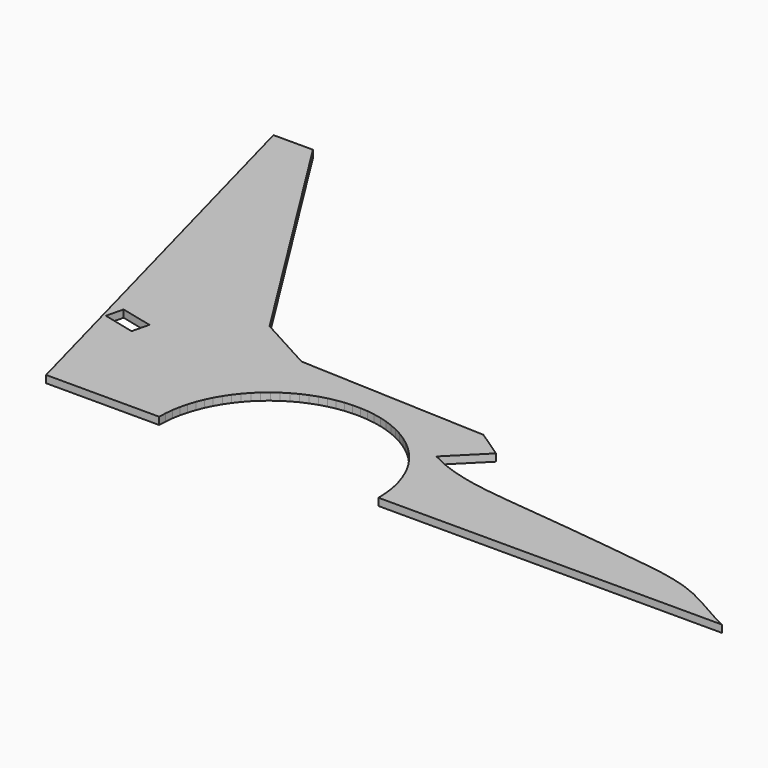
from build123d import *

# Parameters (mm, degrees)
PAD002_DEPTH = 5


with BuildPart() as part:
    # Sketch002 → Pad002 (new body)
    with BuildSketch(Plane.XY):
        with BuildLine():
            add(Edge.make_bspline(
                [(645.666484, -413.860155), (636.98815, -409.450433)],
                knots=[0, 0, 27.593659, 27.593659], degree=1))
            add(Edge.make_bspline(
                [(636.98815, -409.450433), (628.450928, -404.652656)],
                knots=[0, 0, 27.759683, 27.759683], degree=1))
            add(Edge.make_bspline(
                [(628.450928, -404.652656), (619.878429, -399.8196)],
                knots=[0, 0, 27.895878, 27.895878], degree=1))
            add(Edge.make_bspline(
                [(619.878429, -399.8196), (611.12954, -395.409878)],
                knots=[0, 0, 27.772108, 27.772108], degree=1))
            add(Edge.make_bspline(
                [(611.12954, -395.409878), (602.098429, -391.811545)],
                knots=[0, 0, 27.557213, 27.557213], degree=1))
            add(Edge.make_bspline(
                [(602.098429, -391.811545), (592.71454, -389.095156)],
                knots=[0, 0, 27.692057, 27.692057], degree=1))
            add(Edge.make_bspline(
                [(592.71454, -389.095156), (583.118985, -387.084323)],
                knots=[0, 0, 27.790826, 27.790826], degree=1))
            add(Edge.make_bspline(
                [(583.118985, -387.084323), (573.382319, -385.5321)],
                knots=[0, 0, 27.948524, 27.948524], degree=1))
            add(Edge.make_bspline(
                [(573.382319, -385.5321), (542.761208, -381.510434)],
                knots=[0, 0, 87.545417, 87.545417], degree=1))
            add(Edge.make_bspline(
                [(542.761208, -381.510434), (512.316487, -377.912101)],
                knots=[0, 0, 86.90069, 86.90069], degree=1))
            add(Edge.make_bspline(
                [(512.316487, -377.912101), (497.041209, -376.254045)],
                knots=[0, 0, 43.554334, 43.554334], degree=1))
            add(Edge.make_bspline(
                [(497.041209, -376.254045), (481.730654, -374.631267)],
                knots=[0, 0, 43.643098, 43.643098], degree=1))
            add(Edge.make_bspline(
                [(481.730654, -374.631267), (466.420099, -373.00849)],
                knots=[0, 0, 43.643098, 43.643098], degree=1))
            add(Edge.make_bspline(
                [(466.420099, -373.00849), (451.109543, -371.10349)],
                knots=[0, 0, 43.734654, 43.734654], degree=1))
            add(Edge.make_bspline(
                [(451.109543, -371.10349), (441.584544, -369.551267)],
                knots=[0, 0, 27.356169, 27.356169], degree=1))
            add(Edge.make_bspline(
                [(441.584544, -369.551267), (432.165377, -367.505156)],
                knots=[0, 0, 27.322701, 27.322701], degree=1))
            add(Edge.make_bspline(
                [(432.165377, -367.505156), (422.9226, -364.894601)],
                knots=[0, 0, 27.224989, 27.224989], degree=1))
            add(Edge.make_bspline(
                [(422.9226, -364.894601), (413.856211, -361.507934)],
                knots=[0, 0, 27.434467, 27.434467], degree=1))
            add(Edge.make_bspline(
                [(413.856211, -361.507934), (405.036767, -357.239323)],
                knots=[0, 0, 27.774269, 27.774269], degree=1))
            add(Edge.make_bspline(
                [(405.036767, -357.239323), (427.685099, -334.59099)],
                knots=[0, 0, 90.792511, 90.792511], degree=1))
            add(Edge.make_bspline(
                [(427.685099, -334.59099), (408.987878, -321.996824)],
                knots=[0, 0, 63.902191, 63.902191], degree=1))
            add(Edge.make_bspline(
                [(408.987878, -321.996824), (280.153436, -316.493491)],
                knots=[0, 0, 365.533035, 365.533035], degree=1))
            add(Edge.make_bspline(
                [(280.153436, -316.493491), (241.312604, -295.256269)],
                knots=[0, 0, 125.483266, 125.483266], degree=1))
            add(Edge.make_bspline(
                [(241.312604, -295.256269), (131.810384, -121.301551)],
                knots=[0, 0, 582.662655, 582.662655], degree=1))
            add(Edge.make_bspline(
                [(131.810384, -121.301551), (104.787607, -121.301551)],
                knots=[0, 0, 76.6, 76.6], degree=1))
            add(Edge.make_bspline(
                [(104.787607, -121.301551), (183.28066, -413.860155)],
                knots=[0, 0, 858.629571, 858.629571], degree=1))
            add(Edge.make_bspline(
                [(260.680103, -413.860155), (183.28066, -413.860155)],
                knots=[0, 0, 219.4, 219.4], degree=1))
            add(Edge.make_bspline(
                [(260.856492, -408.639044), (260.680103, -413.860155)],
                knots=[0, 0, 14.808444, 14.808444], degree=1))
            add(Edge.make_bspline(
                [(261.385659, -403.417933), (260.856492, -408.639044)],
                knots=[0, 0, 14.875819, 14.875819], degree=1))
            add(Edge.make_bspline(
                [(262.302881, -398.267378), (261.385659, -403.417933)],
                knots=[0, 0, 14.8297, 14.8297], degree=1))
            add(Edge.make_bspline(
                [(263.572881, -393.187378), (262.302881, -398.267378)],
                knots=[0, 0, 14.84318, 14.84318], degree=1))
            add(Edge.make_bspline(
                [(265.195659, -388.213211), (263.572881, -393.187378)],
                knots=[0, 0, 14.831386, 14.831386], degree=1))
            add(Edge.make_bspline(
                [(267.135936, -383.380156), (265.195659, -388.213211)],
                knots=[0, 0, 14.762791, 14.762791], degree=1))
            add(Edge.make_bspline(
                [(269.428992, -378.652934), (267.135936, -383.380156)],
                knots=[0, 0, 14.893287, 14.893287], degree=1))
            add(Edge.make_bspline(
                [(272.074825, -374.137378), (269.428992, -378.652934)],
                knots=[0, 0, 14.835431, 14.835431], degree=1))
            add(Edge.make_bspline(
                [(275.002881, -369.798212), (272.074825, -374.137378)],
                knots=[0, 0, 14.838464, 14.838464], degree=1))
            add(Edge.make_bspline(
                [(278.213158, -365.670712), (275.002881, -369.798212)],
                knots=[0, 0, 14.822281, 14.822281], degree=1))
            add(Edge.make_bspline(
                [(281.705658, -361.754879), (278.213158, -365.670712)],
                knots=[0, 0, 14.873466, 14.873466], degree=1))
            add(Edge.make_bspline(
                [(285.48038, -358.121268), (281.705658, -361.754879)],
                knots=[0, 0, 14.851936, 14.851936], degree=1))
            add(Edge.make_bspline(
                [(289.502047, -354.769879), (285.48038, -358.121268)],
                knots=[0, 0, 14.839474, 14.839474], degree=1))
            add(Edge.make_bspline(
                [(293.73538, -351.700712), (289.502047, -354.769879)],
                knots=[0, 0, 14.821943, 14.821943], degree=1))
            add(Edge.make_bspline(
                [(298.18038, -348.913768), (293.73538, -351.700712)],
                knots=[0, 0, 14.871785, 14.871785], degree=1))
            add(Edge.make_bspline(
                [(302.801769, -346.444324), (298.18038, -348.913768)],
                knots=[0, 0, 14.852946, 14.852946], degree=1))
            add(Edge.make_bspline(
                [(307.564269, -344.327657), (302.801769, -346.444324)],
                knots=[0, 0, 14.773287, 14.773287], degree=1))
            add(Edge.make_bspline(
                [(312.503158, -342.52849), (307.564269, -344.327657)],
                knots=[0, 0, 14.9, 14.9], degree=1))
            add(Edge.make_bspline(
                [(317.512602, -341.082101), (312.503158, -342.52849)],
                knots=[0, 0, 14.780054, 14.780054], degree=1))
            add(Edge.make_bspline(
                [(322.62788, -340.023768), (317.512602, -341.082101)],
                knots=[0, 0, 14.807093, 14.807093], degree=1))
            add(Edge.make_bspline(
                [(327.813713, -339.282935), (322.62788, -340.023768)],
                knots=[0, 0, 14.849242, 14.849242], degree=1))
            add(Edge.make_bspline(
                [(333.034824, -338.930157), (327.813713, -339.282935)],
                knots=[0, 0, 14.833745, 14.833745], degree=1))
            add(Edge.make_bspline(
                [(338.291213, -338.930157), (333.034824, -338.930157)],
                knots=[0, 0, 14.9, 14.9], degree=1))
            add(Edge.make_bspline(
                [(343.512324, -339.282935), (338.291213, -338.930157)],
                knots=[0, 0, 14.833745, 14.833745], degree=1))
            add(Edge.make_bspline(
                [(348.698157, -340.023768), (343.512324, -339.282935)],
                knots=[0, 0, 14.849242, 14.849242], degree=1))
            add(Edge.make_bspline(
                [(353.813434, -341.082101), (348.698157, -340.023768)],
                knots=[0, 0, 14.807093, 14.807093], degree=1))
            add(Edge.make_bspline(
                [(358.858157, -342.52849), (353.813434, -341.082101)],
                knots=[0, 0, 14.876155, 14.876155], degree=1))
            add(Edge.make_bspline(
                [(363.761768, -344.327657), (358.858157, -342.52849)],
                knots=[0, 0, 14.80608, 14.80608], degree=1))
            add(Edge.make_bspline(
                [(368.559545, -346.444324), (363.761768, -344.327657)],
                knots=[0, 0, 14.864723, 14.864723], degree=1))
            add(Edge.make_bspline(
                [(373.180934, -348.913768), (368.559545, -346.444324)],
                knots=[0, 0, 14.852946, 14.852946], degree=1))
            add(Edge.make_bspline(
                [(377.590656, -351.700712), (373.180934, -348.913768)],
                knots=[0, 0, 14.787157, 14.787157], degree=1))
            add(Edge.make_bspline(
                [(381.823989, -354.769879), (377.590656, -351.700712)],
                knots=[0, 0, 14.821943, 14.821943], degree=1))
            add(Edge.make_bspline(
                [(385.845656, -358.121268), (381.823989, -354.769879)],
                knots=[0, 0, 14.839474, 14.839474], degree=1))
            add(Edge.make_bspline(
                [(389.620378, -361.754879), (385.845656, -358.121268)],
                knots=[0, 0, 14.851936, 14.851936], degree=1))
            add(Edge.make_bspline(
                [(393.112878, -365.670712), (389.620378, -361.754879)],
                knots=[0, 0, 14.873466, 14.873466], degree=1))
            add(Edge.make_bspline(
                [(396.358434, -369.798212), (393.112878, -365.670712)],
                knots=[0, 0, 14.883884, 14.883884], degree=1))
            add(Edge.make_bspline(
                [(399.286489, -374.137378), (396.358434, -369.798212)],
                knots=[0, 0, 14.838464, 14.838464], degree=1))
            add(Edge.make_bspline(
                [(401.897045, -378.652934), (399.286489, -374.137378)],
                knots=[0, 0, 14.785128, 14.785128], degree=1))
            add(Edge.make_bspline(
                [(404.1901, -383.380156), (401.897045, -378.652934)],
                knots=[0, 0, 14.893287, 14.893287], degree=1))
            add(Edge.make_bspline(
                [(406.130378, -388.213211), (404.1901, -383.380156)],
                knots=[0, 0, 14.762791, 14.762791], degree=1))
            add(Edge.make_bspline(
                [(407.753155, -393.187378), (406.130378, -388.213211)],
                knots=[0, 0, 14.831386, 14.831386], degree=1))
            add(Edge.make_bspline(
                [(409.023155, -398.267378), (407.753155, -393.187378)],
                knots=[0, 0, 14.84318, 14.84318], degree=1))
            add(Edge.make_bspline(
                [(409.940378, -403.417933), (409.023155, -398.267378)],
                knots=[0, 0, 14.8297, 14.8297], degree=1))
            add(Edge.make_bspline(
                [(410.469544, -408.639044), (409.940378, -403.417933)],
                knots=[0, 0, 14.875819, 14.875819], degree=1))
            add(Edge.make_bspline(
                [(410.681211, -413.860155), (410.469544, -408.639044)],
                knots=[0, 0, 14.812157, 14.812157], degree=1))
            add(Edge.make_bspline(
                [(645.666484, -413.860155), (410.681211, -413.860155)],
                knots=[0, 0, 666.1, 666.1], degree=1))
        make_face()
        with BuildLine():
            add(Edge.make_bspline(
                [(168.287605, -328.805435), (190.159827, -334.097102)],
                knots=[0, 0, 63.788714, 63.788714], degree=1))
            add(Edge.make_bspline(
                [(190.159827, -334.097102), (187.337605, -345.774046)],
                knots=[0, 0, 34.053047, 34.053047], degree=1))
            add(Edge.make_bspline(
                [(187.337605, -345.774046), (165.465383, -340.447101)],
                knots=[0, 0, 63.812303, 63.812303], degree=1))
            add(Edge.make_bspline(
                [(165.465383, -340.447101), (168.287605, -328.805435)],
                knots=[0, 0, 33.955854, 33.955854], degree=1))
        make_face(mode=Mode.SUBTRACT)
    extrude(amount=PAD002_DEPTH)


solid = part.part
